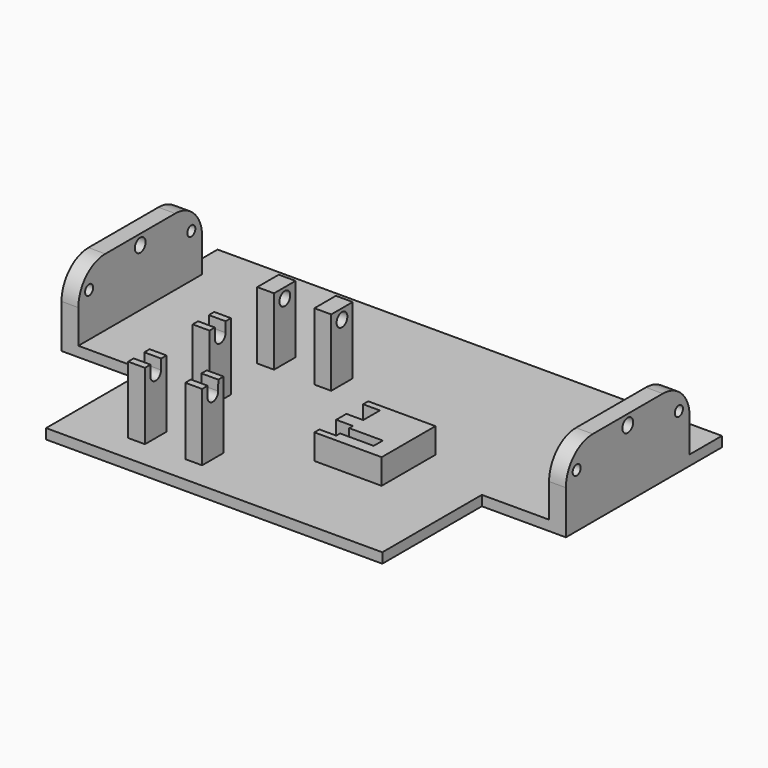
from build123d import *

# Parameters (mm, degrees)
F1_DEPTH  = 3
F2_R      = 1.5
F2_R_2    = 2
F3_DEPTH  = 5
F4_R      = 1.5
F4_R_2    = 2
F5_DEPTH  = 5
F6_W      = 5
F6_H      = 8
F7_DEPTH  = 20
F9_DEPTH  = 25.4
F10_R     = 2
F11_DEPTH = 25.4
F12_W     = 20
F12_H     = 20
F13_DEPTH = 7.5
F14_R     = 1.7
F15_DEPTH = 5
F16_DEPTH = 15
F18_DEPTH = 10


with BuildPart() as f1:
    # F0 (on Top) → F1 (new body)
    with BuildSketch(Plane.XY):
        Polygon((-50, -18.5), (50, -18.5), (50, 18.5), (75, 18.5), (75, 76.5), (-75, 76.5), (-75, 18.5), (-50, 18.5), align=None)
    extrude(amount=-F1_DEPTH)

    # F2 (on face) → F3 (join)
    with BuildSketch(Plane.YZ.offset(75)):
        with BuildLine():
            Line((18.5, 10), (18.5, -3))
            Line((18.5, -3), (64.5, -3))
            Line((64.5, -3), (64.5, 10))
            ThreePointArc((64.5, 10), (61.5710678119, 17.0710678119), (54.5, 20))
            Line((54.5, 20), (28.5, 20))
            ThreePointArc((28.5, 20), (21.4289321881, 17.0710678119), (18.5, 10))
        make_face()
        with Locations((22.5, 13)):
            Circle(F2_R, mode=Mode.SUBTRACT)
        with Locations((60.5, 13)):
            Circle(F2_R, mode=Mode.SUBTRACT)
        with Locations((41.5, 17)):
            Circle(F2_R_2, mode=Mode.SUBTRACT)
    extrude(amount=-F3_DEPTH)

    # F4 (on face) → F5 (join)
    with BuildSketch(Plane(origin=(-75, 0, 0), x_dir=(0, -1, 0), z_dir=(-1, 0, 0))):
        with BuildLine():
            Line((-64.5, 10), (-64.5, 0))
            Line((-64.5, 0), (-18.5, 0))
            Line((-18.5, 0), (-18.5, 10))
            ThreePointArc((-18.5, 10), (-21.4289321881, 17.0710678119), (-28.5, 20))
            Line((-28.5, 20), (-54.5, 20))
            ThreePointArc((-54.5, 20), (-61.5710678119, 17.0710678119), (-64.5, 10))
        make_face()
        with Locations((-60.5, 13)):
            Circle(F4_R, mode=Mode.SUBTRACT)
        with Locations((-22.5, 13)):
            Circle(F4_R, mode=Mode.SUBTRACT)
        with Locations((-41.5, 17)):
            Circle(F4_R_2, mode=Mode.SUBTRACT)
    extrude(amount=-F5_DEPTH)

    # F6 (on face) → F7 (join)
    with BuildSketch(Plane.XY):
        with Locations((-29.5, 41.5)):
            Rectangle(F6_W, F6_H)
        with Locations((-29.5, 17.5)):
            Rectangle(F6_W, F6_H)
        with Locations((-29.5, -6.5)):
            Rectangle(F6_W, F6_H)
        with Locations((-12.5, 41.5)):
            Rectangle(F6_W, F6_H)
        with Locations((-12.5, -6.5)):
            Rectangle(F6_W, F6_H)
    extrude(amount=F7_DEPTH)

    # F8 (on face) → F9 (cut)
    with BuildSketch(Plane(origin=(-32, 0, 0), x_dir=(0, -1, 0), z_dir=(-1, 0, 0))):
        with BuildLine():
            Line((4.48324112, 22.2221616161), (4.5000102861, 16.9935856035))
            ThreePointArc((4.5000102861, 16.9935856035), (6.5287446527, 15.0002065744), (8.4993478236, 17.0510713252))
            Line((8.4993478236, 17.0510713252), (8.3693183096, 22.1414860464))
            Line((8.3693183096, 22.1414860464), (4.48324112, 22.2221616161))
        make_face()
        with BuildLine():
            Line((-19.5, 20.0955439359), (-19.5, 17))
            ThreePointArc((-19.5, 17), (-17.5, 15), (-15.5, 17))
            Line((-15.5, 17), (-15.5, 20.6426493824))
            Line((-15.5, 20.6426493824), (-19.5, 20.0955439359))
        make_face()
    extrude(amount=-F9_DEPTH, mode=Mode.SUBTRACT)

    # F10 (on face) → F11 (cut)
    with BuildSketch(Plane(origin=(-32, 0, 0), x_dir=(0, -1, 0), z_dir=(-1, 0, 0))):
        with Locations((-41.5, 17)):
            Circle(F10_R)
    extrude(amount=-F11_DEPTH, mode=Mode.SUBTRACT)

    # F12 (on face) → F13 (join)
    with BuildSketch(Plane.XY):
        with Locations((19, 17.5)):
            Rectangle(F12_W, F12_H)
    extrude(amount=F13_DEPTH)

    # F14 (on face) → F15 (cut)
    with BuildSketch(Plane(origin=(9, 0, 0), x_dir=(0, -1, 0), z_dir=(-1, 0, 0))):
        Polygon((-22.5, -1.079571669), (-19.4, 0.7102141655), (-19.4, 4.2897858345), (-25.6, 4.2897858345), (-25.6, 0.7102141655), align=None)
        with Locations((-22.5, 2.5)):
            Circle(F14_R, mode=Mode.SUBTRACT)
        Polygon((-25.6, 4.2897858345), (-19.4, 4.2897858345), (-22.5, 6.079571669), align=None)
        Polygon((-22.5, 6.079571669), (-19.4, 4.2897858345), (-19.4, 10.6374248862), (-25.6, 10.6374248862), (-25.6, 4.2897858345), align=None)
        Polygon((-12.5, -1.079571669), (-9.4, 0.7102141655), (-9.4, 4.2897858345), (-15.6, 4.2897858345), (-15.6, 0.7102141655), align=None)
        with Locations((-12.5, 2.5)):
            Circle(F14_R, mode=Mode.SUBTRACT)
        Polygon((-15.6, 4.2897858345), (-9.4, 4.2897858345), (-12.5, 6.079571669), align=None)
        Polygon((-12.5, 6.079571669), (-9.4, 4.2897858345), (-9.3752695248, 4.2897858345), (-9.3752695248, 11.5191247314), (-15.6, 11.5191247314), (-15.6, 4.2897858345), align=None)
        with Locations((-22.5, 2.5)):
            Circle(F14_R)
        with Locations((-12.5, 2.5)):
            Circle(F14_R)
    extrude(amount=-F15_DEPTH, mode=Mode.SUBTRACT)

    # F14 (on face) → F16 (cut)
    with BuildSketch(Plane(origin=(9, 0, 0), x_dir=(0, -1, 0), z_dir=(-1, 0, 0))):
        with Locations((-22.5, 2.5)):
            Circle(F14_R)
        with Locations((-12.5, 2.5)):
            Circle(F14_R)
    extrude(amount=-F16_DEPTH, mode=Mode.SUBTRACT)

    # F17 (on face) → F18 (cut)
    with BuildSketch(Plane(origin=(14, 0, 0), x_dir=(0, -1, 0), z_dir=(-1, 0, 0))):
        with BuildLine():
            Line((-14.2, 7.5), (-14.2, 2.5))
            ThreePointArc((-14.2, 2.5), (-12.5, 4.2), (-10.8, 2.5))
            Line((-10.8, 2.5), (-10.8, 7.5))
            Line((-10.8, 7.5), (-14.2, 7.5))
        make_face()
    extrude(amount=-F18_DEPTH, mode=Mode.SUBTRACT)


solid = f1.part
